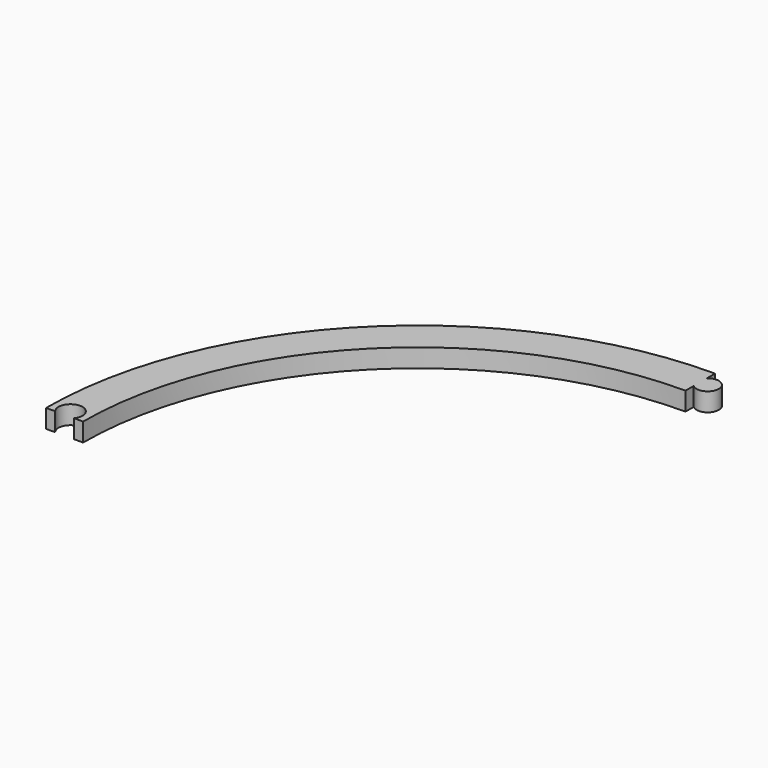
from build123d import *

# Parameters (mm, degrees)
PAD_DEPTH    = 2.5
SKETCH001_R  = 3
PAD001_DEPTH = 5
SKETCH002_R  = 3.25
POCKET_DEPTH = 5


with BuildPart() as part:
    # Sketch → Pad (new body, symmetric)
    with BuildSketch(Plane.XY):
        with BuildLine():
            ThreePointArc((0, 90.5), (-63.993164, 63.993164), (-90.5, 0))
            Line((-100.5, 0), (-90.5, 0))
            ThreePointArc((0, 100.5), (-71.064232, 71.064232), (-100.5, 0))
            Line((0, 100.5), (0, 90.5))
        make_face()
    extrude(amount=PAD_DEPTH, both=True)

    # Sketch001 → Pad001 (new body)
    with BuildSketch(Plane.XY.offset(2.5)):
        with Locations((2, 95.5)):
            Circle(SKETCH001_R)
    extrude(amount=-PAD001_DEPTH)

    # Sketch002 → Pocket (cut)
    with BuildSketch(Plane.XY.offset(2.5)):
        with Locations((-95.5, 2)):
            Circle(SKETCH002_R)
    extrude(amount=-POCKET_DEPTH, mode=Mode.SUBTRACT)


solid = part.part
